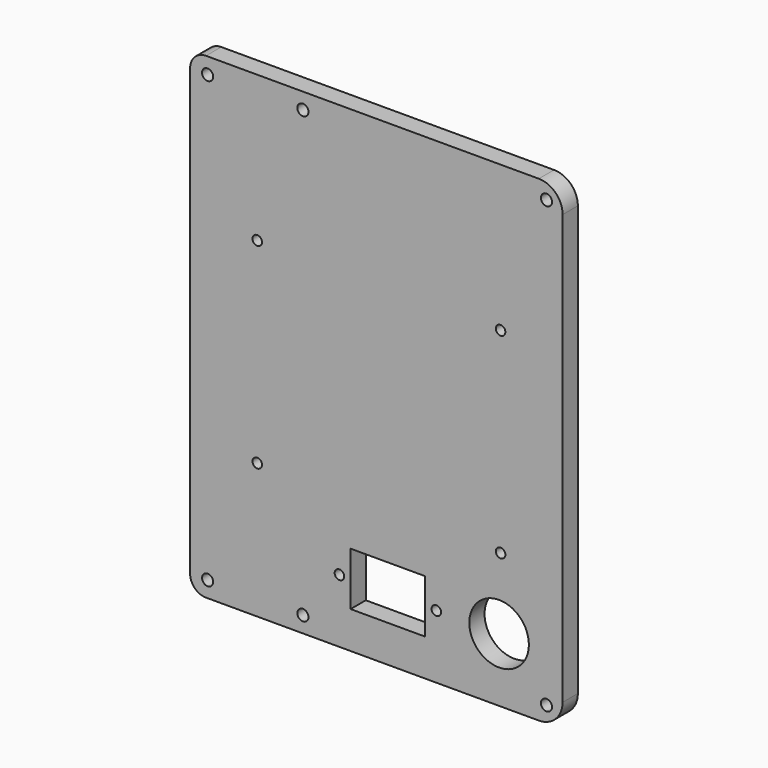
from build123d import *

# Parameters (mm, degrees)
F0_W      = 41
F0_H      = 150.145
F1_DEPTH  = 6
F2_R      = 1.75
F3_DEPTH  = 6.001
F4_W      = 76.25
F4_H      = 150.145
F5_DEPTH  = 6
F6_R      = 5
F7_R      = 7.5
F8_R      = 1.75
F9_DEPTH  = 6.001
F10_R     = 9.375
F10_W     = 23.5
F10_H     = 16.75
F10_R_2   = 1.5
F11_DEPTH = 6.001
F12_R     = 1.5
F13_DEPTH = 6.001


with BuildPart() as f1:
    # F0 (on Front) → F1 (new body)
    with BuildSketch(Plane.XZ):
        Rectangle(F0_W, F0_H)
    extrude(amount=F1_DEPTH)

    # F2 (on face) → F3 (cut, through all)
    with BuildSketch(Plane.XZ.offset(6)):
        with Locations((-15, 70)):
            Circle(F2_R)
        with Locations((15, 70)):
            Circle(F2_R)
        with Locations((-15, -70)):
            Circle(F2_R)
        with Locations((15, -70)):
            Circle(F2_R)
    extrude(amount=-F3_DEPTH, mode=Mode.SUBTRACT)

    # F4 (on face) → F5 (join, through all)
    with BuildSketch(Plane.XZ.offset(6)):
        with Locations((58.625, 0)):
            Rectangle(F4_W, F4_H)
    extrude(amount=-F5_DEPTH)

    # F6
    f6_edges = [f1.edges().sort_by_distance(p)[0] for p in [
        (-20.5, -3, 75.0725),
        (-20.5, -3, -75.0725),
    ]]
    fillet(f6_edges, radius=F6_R)

    # F7
    f7_edges = [f1.edges().sort_by_distance(p)[0] for p in [
        (96.75, -3, 75.0725),
        (96.75, -3, -75.0725),
    ]]
    fillet(f7_edges, radius=F7_R)

    # F8 (on face) → F9 (cut, through all)
    with BuildSketch(Plane.XZ.offset(6)):
        with Locations((91.668, 70)):
            Circle(F8_R)
        with Locations((91.668, -70)):
            Circle(F8_R)
    extrude(amount=-F9_DEPTH, mode=Mode.SUBTRACT)

    # F10 (on face) → F11 (cut, through all)
    with BuildSketch(Plane.XZ.offset(6)):
        with Locations((76.75, -55.0725)):
            Circle(F10_R)
        with Locations((41.75, -55.0725)):
            Rectangle(F10_W, F10_H)
        with Locations((57, -55.0725)):
            Circle(F10_R_2)
        with Locations((26.5, -55.0725)):
            Circle(F10_R_2)
    extrude(amount=-F11_DEPTH, mode=Mode.SUBTRACT)

    # F12 (on face) → F13 (cut, through all)
    with BuildSketch(Plane.XZ.offset(6)):
        with Locations((0.625, -32.5525)):
            Circle(F12_R)
        with Locations((77.225, -32.5525)):
            Circle(F12_R)
        with Locations((0.625, 29.1575)):
            Circle(F12_R)
        with Locations((77.225, 29.1575)):
            Circle(F12_R)
    extrude(amount=-F13_DEPTH, mode=Mode.SUBTRACT)


solid = f1.part
